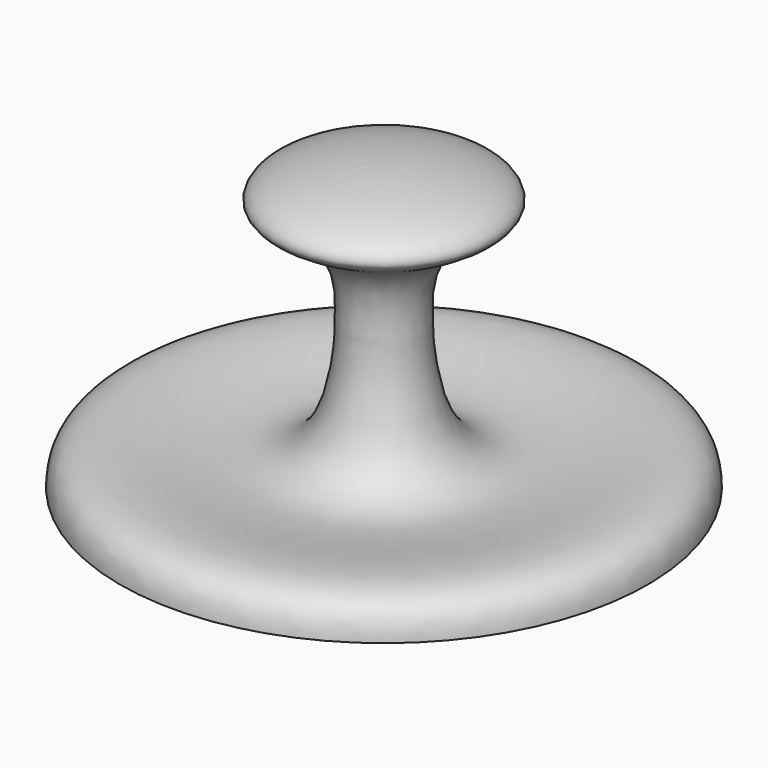
from build123d import *

# Parameters (mm, degrees)
F3_D           = 6.1
F3_DEPTH       = 8
F3_CSINK_D     = 7
F3_CSINK_ANGLE = 90
F3_TIP         = 1.832624888


with BuildPart() as f1:
    # F0 (on Right) → F1 (revolve)
    with BuildSketch(Plane.YZ):
        with BuildLine():
            add(Edge.make_bspline(
                [(10, 23), (10, 21.8664322962), (3.0825162614, 20.251966077), (3.5427284539, 13.8059508825), (3.4738352209, 12.9727567291), (3.6394488997, 8.6857974094), (7.0048850653, -1.7833826218), (24, 6.1783335444), (24, 0)],
                knots=[0, 0, 0, 0, 0.174559548, 0.3346817865, 0.3981198991, 0.5350171341, 0.7362223145, 1, 1, 1, 1], degree=3))
            add(Edge.make_bspline(
                [(10, 23), (10, 26), (0, 26)],
                knots=[3.1415926536, 3.1415926536, 3.1415926536, 4.7123889804, 4.7123889804, 4.7123889804], degree=2, weights=[1, 0.7071067812, 1]))
            Line((0, 26), (0, 0))
            Line((0, 0), (24, 0))
        make_face()
    revolve(axis=Axis((0, 0, 13), (0, 0, 1)))

    # F3
    with Locations(Plane(origin=(0, 0, 0), x_dir=(1, 0, 0), z_dir=(0, 0, -1))):
        with Locations((0, 0)):
            CounterSinkHole(F3_D / 2, F3_CSINK_D / 2, depth=F3_DEPTH, counter_sink_angle=F3_CSINK_ANGLE)
            with Locations((0, 0, -(F3_DEPTH + F3_TIP / 2))):  # 118° drill point
                Cone(0, F3_D / 2, F3_TIP, mode=Mode.SUBTRACT)


solid = f1.part
